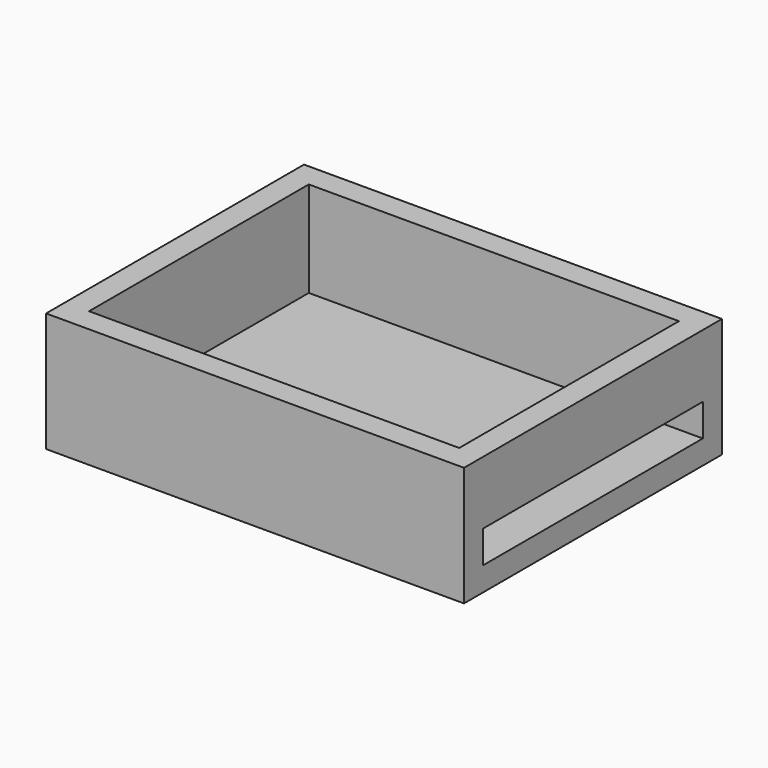
from build123d import *

# Parameters (mm, degrees)
F0_W     = 78.74
F0_H     = 58.42
F1_DEPTH = 5.08
F0_W_2   = 88.9
F0_H_2   = 68.58
F2_DEPTH = 25.4
F3_W     = 58.42
F3_H     = 6.883326
F4_DEPTH = 5.08


with BuildPart() as f1:
    # F0 (on Top) → F1 (new body)
    with BuildSketch(Plane.XY):
        with Locations((44.45, 34.29)):
            Rectangle(F0_W, F0_H)
    extrude(amount=F1_DEPTH)

    # F0 (on Top) → F2 (join)
    with BuildSketch(Plane.XY):
        with Locations((44.45, 34.29)):
            Rectangle(F0_W_2, F0_H_2)
        with Locations((44.45, 34.29)):
            Rectangle(F0_W, F0_H, mode=Mode.SUBTRACT)
    extrude(amount=F2_DEPTH)

    # F3 (on face) → F4 (cut)
    with BuildSketch(Plane.YZ.offset(88.9)):
        with Locations((34.29, 8.521663)):
            Rectangle(F3_W, F3_H)
    extrude(amount=-F4_DEPTH, mode=Mode.SUBTRACT)


solid = f1.part
